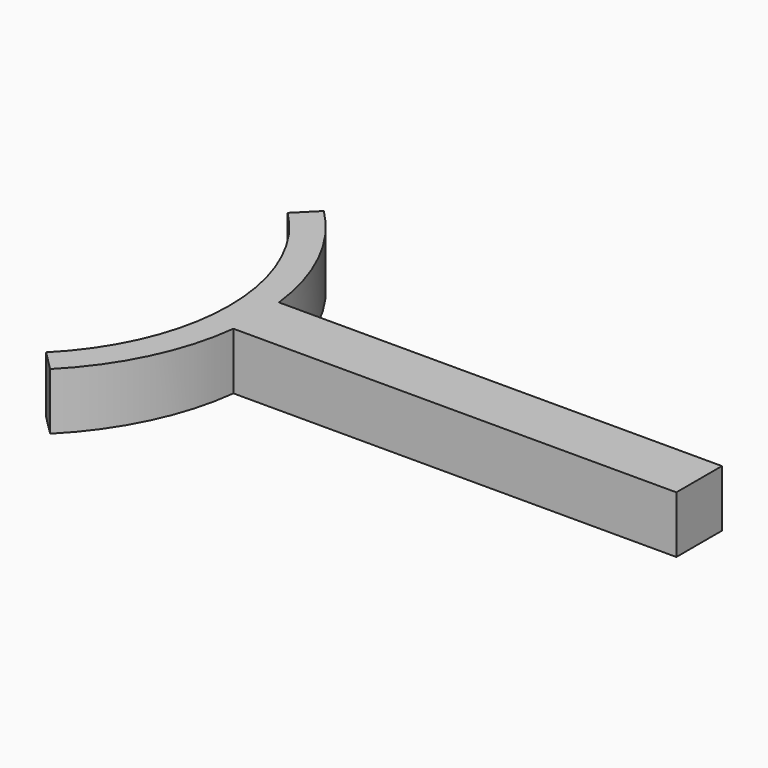
from build123d import *

# Parameters (mm, degrees)
PAD_DEPTH = 10


with BuildPart() as part:
    # Sketch001 → Pad (new body)
    with BuildSketch(Plane.XY):
        with BuildLine():
            ThreePointArc((26.516504, -26.516504), (37.5, 0), (26.516504, 26.516504))
            Line((26.516504, 26.516504), (30.052038, 30.052038))
            ThreePointArc((42.204858, 5), (38.238278, 18.549504), (30.052038, 30.052038))
            Line((42.204858, 5), (120, 5))
            Line((120, 5), (120, -5))
            Line((42.204858, -5), (120, -5))
            ThreePointArc((30.052038, -30.052038), (38.238278, -18.549504), (42.204858, -5))
            Line((26.516504, -26.516504), (30.052038, -30.052038))
        make_face()
    extrude(amount=PAD_DEPTH)


solid = part.part
